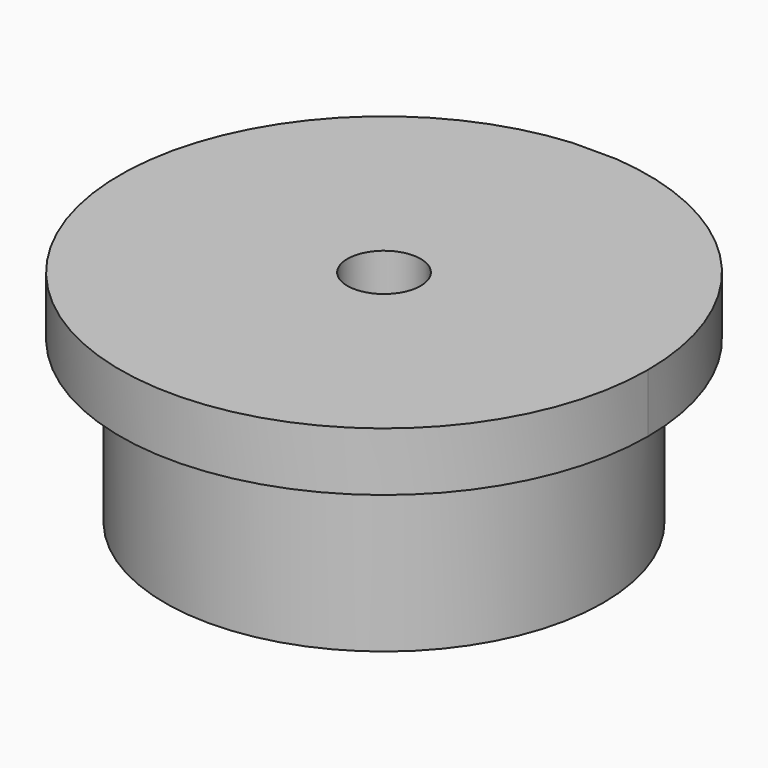
from build123d import *

# Parameters (mm, degrees)
F1_DEPTH = 11
F3_DEPTH = 4
F5_D     = 5


with BuildPart() as f1:
    # F0 (on Top) → F1 (new body)
    with BuildSketch(Plane.XY):
        with BuildLine():
            Line((-1.5, 17.95), (-1.5, 14.874559))
            ThreePointArc((-1.5, 14.874559), (0, -14.95), (1.5, 14.874559))
            Line((1.5, 14.874559), (1.5, 17.95))
            Line((1.5, 17.95), (-1.5, 17.95))
        make_face()
    extrude(amount=F1_DEPTH)

    # F2 (on face) → F3 (join)
    with BuildSketch(Plane.XY.offset(11)):
        with BuildLine():
            ThreePointArc((-1.5, 17.95), (-12.194951, -13.256533), (18.012565, 0))
            ThreePointArc((18.012565, 0), (13.256533, 12.194951), (1.5, 17.95))
            Line((1.5, 17.95), (1.5, 14.874559))
            ThreePointArc((1.5, 14.874559), (0, -14.95), (-1.5, 14.874559))
            Line((-1.5, 14.874559), (-1.5, 17.95))
        make_face()
        with BuildLine():
            Line((1.5, 14.874559), (1.5, 17.95))
            Line((1.5, 17.95), (-1.5, 17.95))
            Line((-1.5, 17.95), (-1.5, 14.874559))
            ThreePointArc((-1.5, 14.874559), (0, -14.95), (1.5, 14.874559))
        make_face()
    extrude(amount=F3_DEPTH)

    # F5 (through all)
    with Locations(Plane(origin=(0, 0, 0), x_dir=(1, 0, 0), z_dir=(0, 0, -1))):
        with Locations((0, 0)):
            Hole(F5_D / 2)


solid = f1.part
